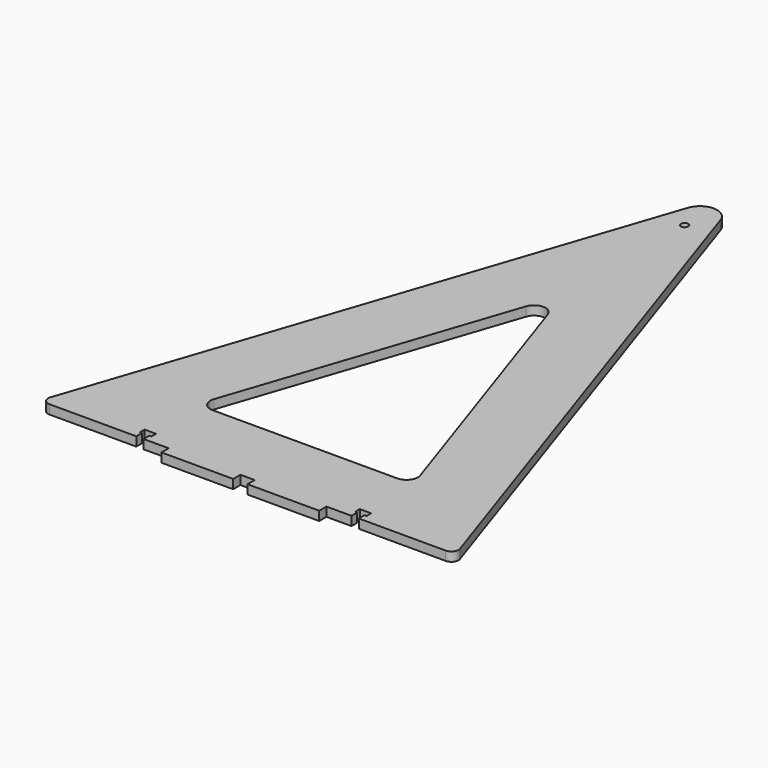
from build123d import *

# Parameters (mm, degrees)
F0_R     = 2.55
F1_DEPTH = 6.35


with BuildPart() as f1:
    # F0 (on Top) → F1 (new body)
    with BuildSketch(Plane.XY):
        with BuildLine():
            Line((-11.375741, 397.923828), (-142.786492, 6.591673))
            ThreePointArc((-142.786492, 6.591673), (-142.106056, 2.080956), (-138.0466, 0))
            Line((-138.0466, 0), (-77.55, 0))
            Line((-77.55, 0), (-77.55, 5))
            Line((-77.55, 5), (-79, 5))
            Line((-79, 5), (-79, 9))
            Line((-79, 9), (-77.55, 9))
            Line((-77.55, 9), (-75, 9))
            Line((-75, 9), (-72.45, 9))
            Line((-72.45, 9), (-71, 9))
            Line((-71, 9), (-71, 5))
            Line((-71, 5), (-72.45, 5))
            Line((-72.45, 5), (-72.45, 0))
            Line((-72.45, 0), (-55, 0))
            Line((-55, 0), (-55, -6.3))
            Line((-55, -6.3), (-5, -6.3))
            Line((-5, -6.3), (-5, 0))
            Line((-5, 0), (0, 0))
            Line((0, 0), (5, 0))
            Line((5, 0), (5, -6.3))
            Line((5, -6.3), (55, -6.3))
            Line((55, -6.3), (55, 0))
            Line((55, 0), (72.45, 0))
            Line((72.45, 0), (72.45, 5))
            Line((72.45, 5), (71, 5))
            Line((71, 5), (71, 9))
            Line((71, 9), (72.45, 9))
            Line((72.45, 9), (75, 9))
            Line((75, 9), (77.55, 9))
            Line((77.55, 9), (79, 9))
            Line((79, 9), (79, 5))
            Line((79, 5), (77.55, 5))
            Line((77.55, 5), (77.55, 0))
            Line((77.55, 0), (138.10993, 0))
            ThreePointArc((138.10993, 0), (142.132414, 2.062003), (142.806652, 6.531638))
            Line((142.806652, 6.531638), (11.375741, 397.923828))
            ThreePointArc((11.375741, 397.923828), (0, 406.103813), (-11.375741, 397.923828))
        make_face()
        with BuildLine():
            Line((64.340563, 50), (0, 50))
            Line((0, 50), (-64.340563, 50))
            ThreePointArc((-64.340563, 50), (-70.835693, 53.32953), (-71.924391, 60.546677))
            Line((-71.924391, 60.546677), (-7.583827, 252.148437))
            ThreePointArc((-7.583827, 252.148437), (0, 257.601761), (7.583827, 252.148437))
            Line((7.583827, 252.148437), (71.924391, 60.546677))
            ThreePointArc((71.924391, 60.546677), (70.835693, 53.32953), (64.340563, 50))
        make_face(mode=Mode.SUBTRACT)
        with Locations((0, 380.8)):
            Circle(F0_R, mode=Mode.SUBTRACT)
    extrude(amount=F1_DEPTH)


solid = f1.part
